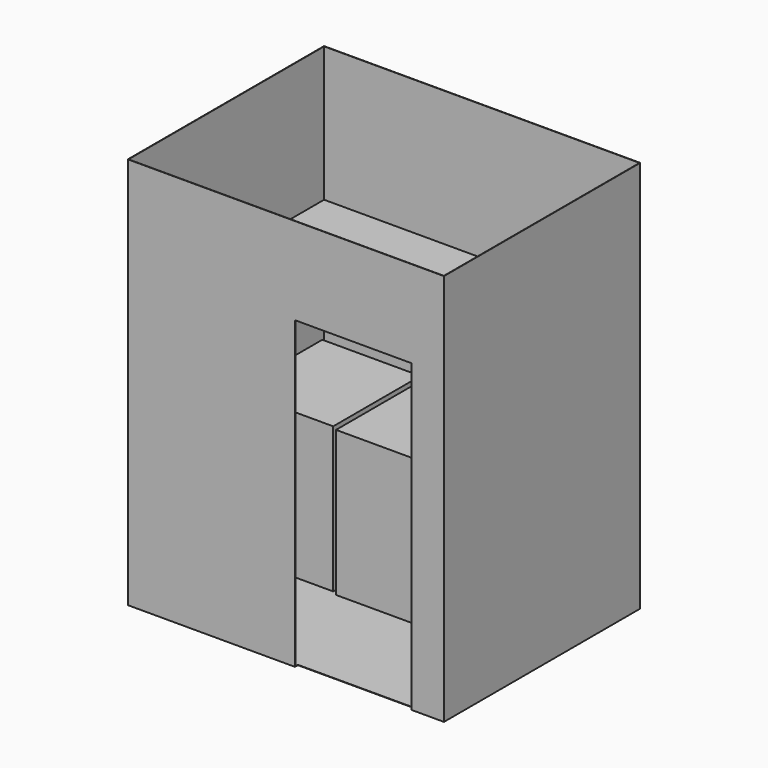
from build123d import *

# Parameters (mm, degrees)
F0_W      = 2209.8
F0_H      = 1714.5
F1_DEPTH  = 2743.2
F2_T      = -2.54
F3_W      = 812.8
F3_H      = 2133.6
F4_DEPTH  = 25.4
F5_W      = 685.8
F5_H      = 762
F6_DEPTH  = 1016
F7_W      = 457.2
F7_H      = 50.8
F8_DEPTH  = 2204.72
F9_W      = 609.6
F9_H      = 457.2
F10_DEPTH = 1787.525


with BuildPart() as f1:
    # F0 (on Top) → F1 (new body)
    with BuildSketch(Plane.XY):
        with Locations((1104.9, 857.25)):
            Rectangle(F0_W, F0_H)
    extrude(amount=F1_DEPTH)

    # F2
    f2_openings = [f1.faces().sort_by_distance(p)[0] for p in [
        (1104.9, 857.25, 2743.2),
    ]]
    offset(amount=F2_T, openings=f2_openings)

    # F3 (on face) → F4 (cut)
    with BuildSketch(Plane.XZ):
        with Locations((1574.8, 1066.8)):
            Rectangle(F3_W, F3_H)
    extrude(amount=-F4_DEPTH, mode=Mode.SUBTRACT)


with BuildPart() as f6:
    # F5 (on face) → F6 (new body)
    with BuildSketch(Plane.XY.offset(2.54)):
        with Locations((434.34, 1203.96)):
            Rectangle(F5_W, F5_H)
    extrude(amount=F6_DEPTH)


with BuildPart() as f6b:
    # F5 (on face) → F6, piece 2 (new body)
    with BuildSketch(Plane.XY.offset(2.54)):
        with Locations((1158.24, 1181.1)):
            Rectangle(F5_W, F5_H)
    extrude(amount=F6_DEPTH)


with BuildPart() as f8:
    # F7 (on face) → F8 (new body, through all)
    with BuildSketch(Plane.YZ.offset(2.54)):
        with Locations((1483.36, 1774.19)):
            Rectangle(F7_W, F7_H)
    extrude(amount=F8_DEPTH)


with BuildPart() as f10:
    # F9 (on face) → F10 (new body)
    with BuildSketch(Plane.XY.offset(2.54)):
        with Locations((1851.66, 1432.56)):
            Rectangle(F9_W, F9_H)
    extrude(amount=F10_DEPTH)


solid = Compound([f1.part, f6.part, f6b.part, f8.part, f10.part])
